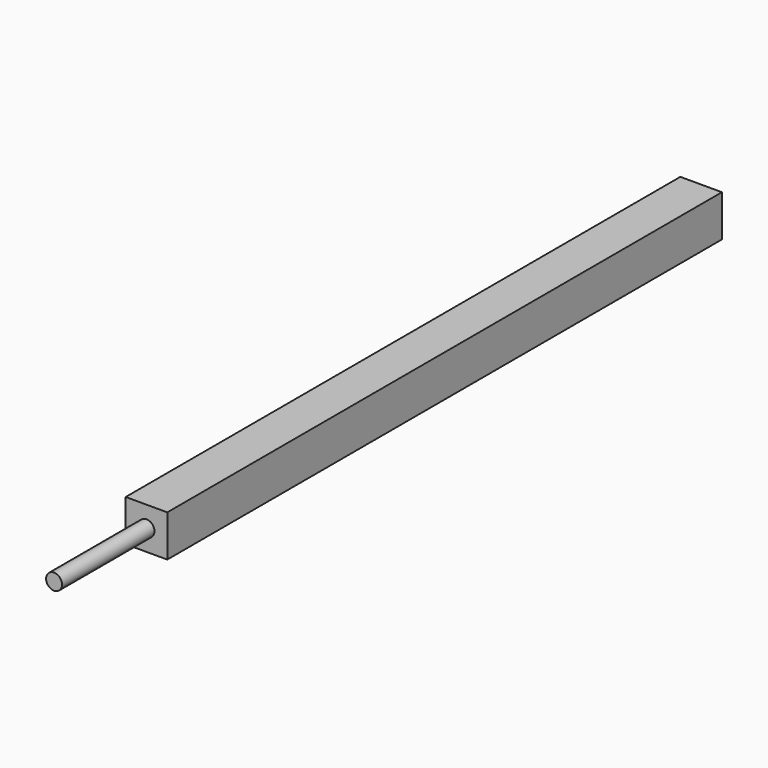
from build123d import *

# Parameters (mm, degrees)
F0_W     = 4.572
F0_H     = 4.572
F1_DEPTH = 76.2
F2_R     = 0.8763
F3_DEPTH = 12.7
F4_R     = 0.9144
F5_DEPTH = 20.32


with BuildPart() as f1:
    # F0 (on Front) → F1 (new body)
    with BuildSketch(Plane.XZ):
        Rectangle(F0_W, F0_H)
    extrude(amount=F1_DEPTH)

    # F2 (on face) → F3 (join)
    with BuildSketch(Plane.XZ.offset(76.2)):
        Circle(F2_R)
    extrude(amount=F3_DEPTH)

    # F4 (on face) → F5 (cut)
    with BuildSketch(Plane(origin=(0, 0, 0), x_dir=(-1, 0, 0), z_dir=(0, 1, 0))):
        Circle(F4_R)
    extrude(amount=-F5_DEPTH, mode=Mode.SUBTRACT)


solid = f1.part
